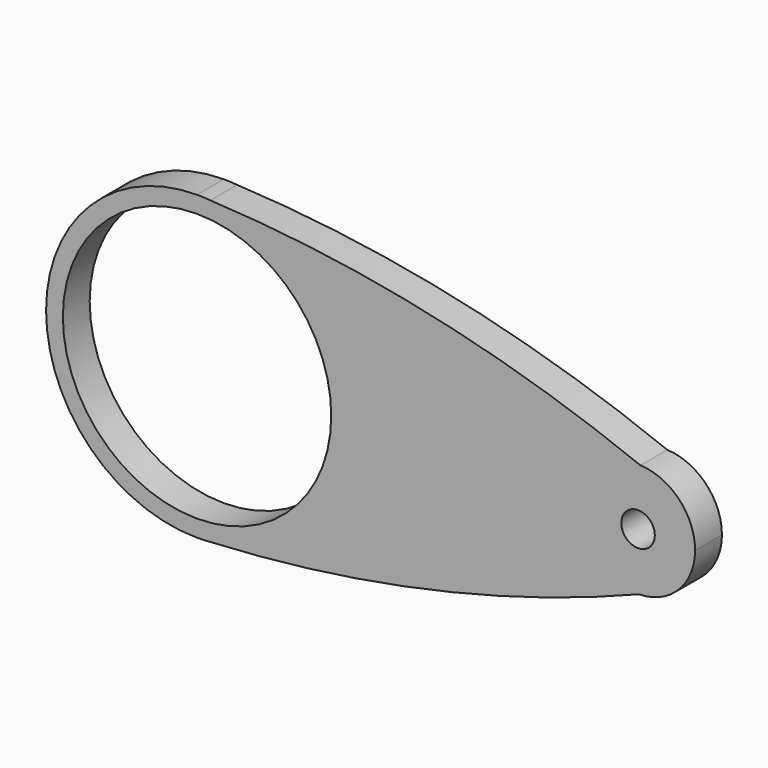
from build123d import *

# Parameters (mm, degrees)
F0_R     = 25.4
F0_R_2   = 3.175
F1_DEPTH = 6.35


with BuildPart() as f1:
    # F0 (on Front) → F1 (new body)
    with BuildSketch(Plane.XZ):
        with BuildLine():
            ThreePointArc((2.516915, 28.463938), (1.258595, 28.52259), (0, 28.575))
            ThreePointArc((0, 28.575), (-28.575, 0), (0, -28.575))
            ThreePointArc((0, -28.575), (1.29359, -28.519629), (2.586881, -28.457665))
            ThreePointArc((2.586881, -28.457665), (21.100364, -19.269282), (28.575, 0))
            ThreePointArc((28.575, 0), (21.076663, 19.295204), (2.516915, 28.463938))
        make_face()
        Circle(F0_R, mode=Mode.SUBTRACT)
        with BuildLine():
            ThreePointArc((2.516915, 28.463938), (1.259682, 28.547221), (0, 28.575))
            ThreePointArc((0, 28.575), (1.258595, 28.52259), (2.516915, 28.463938))
        make_face()
        with BuildLine():
            ThreePointArc((2.586881, -28.457665), (1.29359, -28.519629), (0, -28.575))
            ThreePointArc((0, -28.575), (1.294771, -28.545651), (2.586881, -28.457665))
        make_face()
        with BuildLine():
            ThreePointArc((83.936531, 10.785326), (43.956529, 22.985785), (2.516915, 28.463938))
            ThreePointArc((2.516915, 28.463938), (21.076663, 19.295204), (28.575, 0))
            ThreePointArc((28.575, 0), (21.100364, -19.269282), (2.586881, -28.457665))
            ThreePointArc((2.586881, -28.457665), (43.853206, -22.959027), (83.66704, -10.793373))
            ThreePointArc((83.66704, -10.793373), (72.68547, 0.134806), (83.936531, 10.785326))
        make_face()
        with BuildLine():
            ThreePointArc((94.274628, 0), (91.272711, 7.469932), (83.936531, 10.785326))
            ThreePointArc((83.936531, 10.785326), (72.68547, 0.134806), (83.66704, -10.793373))
            ThreePointArc((83.66704, -10.793373), (91.178821, -7.566668), (94.274628, 0))
        make_face()
        with Locations((83.479628, 0)):
            Circle(F0_R_2, mode=Mode.SUBTRACT)
    extrude(amount=F1_DEPTH)


solid = f1.part
